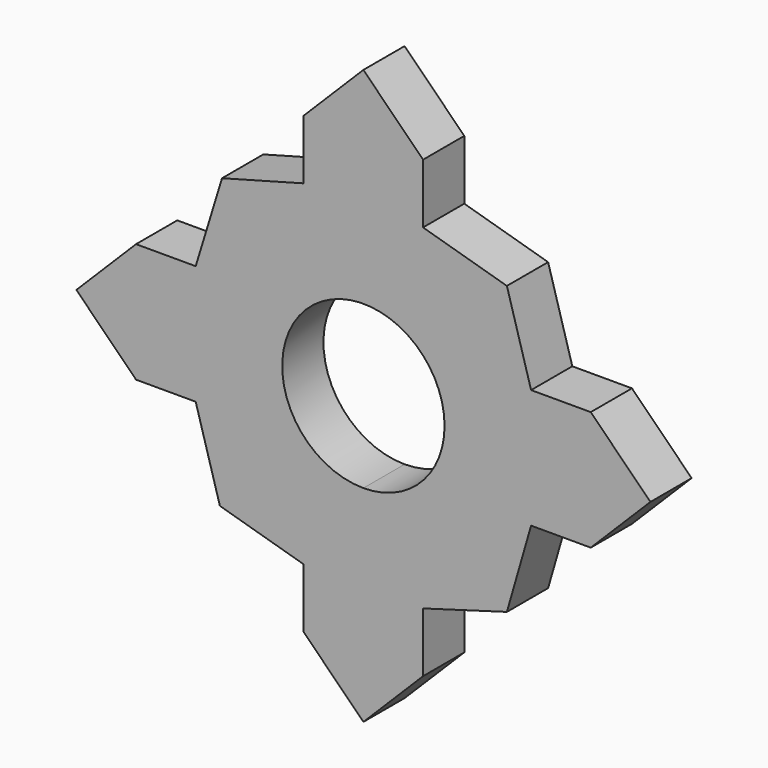
from build123d import *

# Parameters (mm, degrees)
F1_DEPTH = 7


with BuildPart() as f1:
    # F0 (on Front) → F1 (new body)
    with BuildSketch(Plane.XZ):
        Polygon((-19.198373, 19.786941), (-22.778726, 8.103294), (-8.103296, 22.778725), align=None)
        Polygon((-8.103296, 30.88202), (-8.103296, 22.778725), (0, 30.88202), (8.103296, 22.778725), (8.103296, 30.88202), (0, 38.985316), align=None)
        Polygon((15.44101, 15.44101), (22.778724, 8.103296), (19.492658, 19.492658), (8.103296, 22.778725), align=None)
        Polygon((30.88202, 0), (22.778724, -8.103296), (30.88202, -8.103296), (38.985316, 0), (30.88202, 8.103296), (22.778724, 8.103296), align=None)
        Polygon((22.778724, -8.103296), (8.103296, -22.778724), (19.492658, -19.492658), align=None)
        Polygon((8.103296, -22.778724), (0, -30.88202), (0, -38.985316), (8.103296, -30.88202), align=None)
        Polygon((-19.492657, -19.492658), (-8.103296, -22.778724), (-22.778724, -8.103296), align=None)
        Polygon((-30.88202, -8.103296), (-22.778724, -8.103296), (-30.88202, 0), (-22.778726, 8.103294), (-30.88202, 8.103294), (-38.985314, 0), align=None)
        Polygon((-8.103296, -22.778724), (0, -30.88202), (8.103296, -22.778724), (22.778724, -8.103296), (30.88202, 0), (22.778724, 8.103296), (15.44101, 15.44101), (8.103296, 22.778725), (0, 30.88202), (-8.103296, 22.778725), (-22.778726, 8.103294), (-30.88202, 0), (-22.778724, -8.103296), align=None)
        with BuildLine():
            ThreePointArc((0, -13.737248), (-9.713701, 9.713701), (13.737248, 0))
            ThreePointArc((13.737248, 0), (9.713701, -9.713701), (0, -13.737248))
        make_face(mode=Mode.SUBTRACT)
        Polygon((0, -38.985316), (0, -30.88202), (-8.103296, -22.778724), (-8.103296, -30.88202), align=None)
        with BuildLine():
            ThreePointArc((0, -13.737248), (9.713701, -9.713701), (13.737248, 0))
            ThreePointArc((13.737248, 0), (-9.713701, 9.713701), (0, -13.737248))
        make_face()
        with BuildLine():
            ThreePointArc((11.025, 0), (7.795852, -7.795852), (0, -11.025))
            ThreePointArc((0, -11.025), (-7.795852, 7.795852), (11.025, 0))
        make_face(mode=Mode.SUBTRACT)
    extrude(amount=F1_DEPTH)


solid = f1.part
